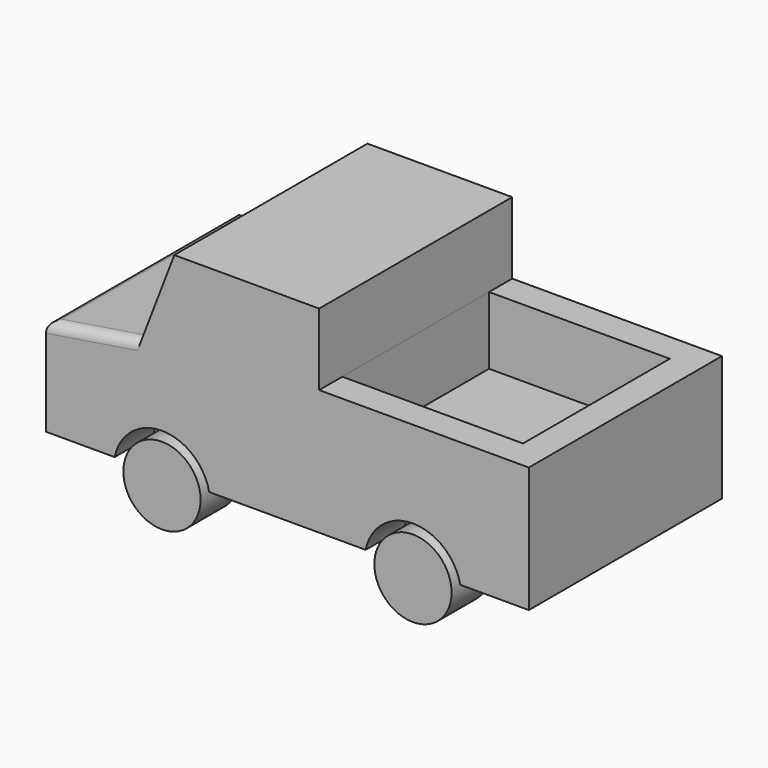
from build123d import *

# Parameters (mm, degrees)
F1_DEPTH = 25
F2_W     = 18.718621
F2_H     = 19
F3_DEPTH = 7
F4_R     = 1
F5_R     = 5
F6_DEPTH = 5
F7_R     = 4
F8_DEPTH = 5


with BuildPart() as f1:
    # F0 (on Front) → F1 (new body)
    with BuildSketch(Plane.XZ):
        Polygon((-25, -5), (-25, -15), (25, -15), (25, -6), (25, -2), (3.281379, -2), (3.281379, 5.433359), (-11.718621, 5.433359), (-15.123117, -3.435655), align=None)
    extrude(amount=F1_DEPTH)

    # F2 (on face) → F3 (cut)
    with BuildSketch(Plane.XY.offset(-2)):
        with Locations((12.64069, -12.5)):
            Rectangle(F2_W, F2_H)
    extrude(amount=-F3_DEPTH, mode=Mode.SUBTRACT)

    # F4
    f4_edges = [f1.edges().sort_by_distance(p)[0] for p in [
        (-20.061558, 0, -4.217828),
        (-20.061558, -25, -4.217828),
        (-25, -12.5, -5),
    ]]
    fillet(f4_edges, radius=F4_R)

    # F5 (on face) → F6 (cut)
    with BuildSketch(Plane.XZ.offset(25)):
        with Locations((-13, -16)):
            Circle(F5_R)
        with Locations((13, -16)):
            Circle(F5_R)
    extrude(amount=-F6_DEPTH, mode=Mode.SUBTRACT)

    # F7 (on face) → F8 (join, through all)
    with BuildSketch(Plane.XZ.offset(20)):
        with Locations((-13, -16)):
            Circle(F7_R)
        with Locations((13, -16)):
            Circle(F7_R)
    extrude(amount=F8_DEPTH)


solid = f1.part
